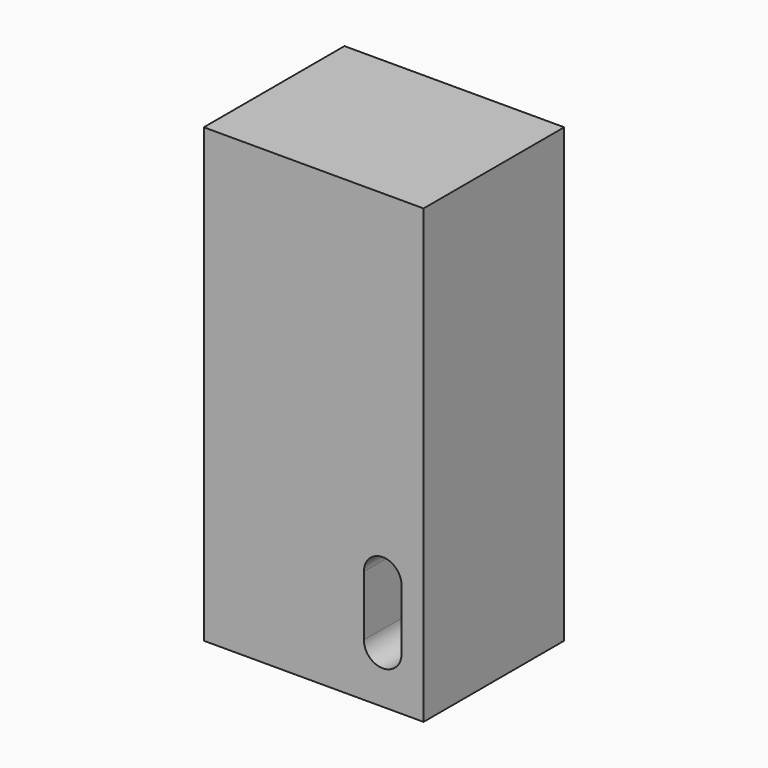
from build123d import *

# Parameters (mm, degrees)
EXTRUDE010_DEPTH           = 14
EXTRUDE010_PLACEMENT_ANGLE = 90
BOX023_W                   = 17.5
BOX023_H                   = 14
BOX023_DEPTH               = 36


with BuildPart() as extrude010:
    # Sketch014 → Extrude010 (new body)
    with BuildSketch(Plane.XZ):
        with BuildLine():
            ThreePointArc((-4.8, 1.5), (-6.3, 0), (-4.8, -1.5))
            Line((-4.8, -1.5), (0, -1.5))
            ThreePointArc((0, -1.5), (1.5, 0), (0, 1.5))
            Line((-4.8, 1.5), (0, 1.5))
        make_face()
    extrude(amount=EXTRUDE010_DEPTH)


with BuildPart() as extrude010_1:
    # Extrude010 placement: moved
    add(extrude010.part.moved(Location((86.5, 27.25, -27))).rotate(Axis((86.5, 27.25, -27), (0, -1, 0)), EXTRUDE010_PLACEMENT_ANGLE))


with BuildPart() as cut005:
    # Box023 → Box023 (new body)
    with BuildSketch(Plane(origin=(72.25, 13.25, -36), x_dir=(1, 0, 0), z_dir=(0, 0, 1))):
        with Locations((8.75, 7)):
            Rectangle(BOX023_W, BOX023_H)
    extrude(amount=BOX023_DEPTH)

    # Cut005: cut Extrude010
    add(extrude010_1.part, mode=Mode.SUBTRACT)


with BuildPart() as cut005_1:
    # Cut005 placement: moved
    add(cut005.part.moved(Location((0, 3, 0))))


solid = cut005_1.part
